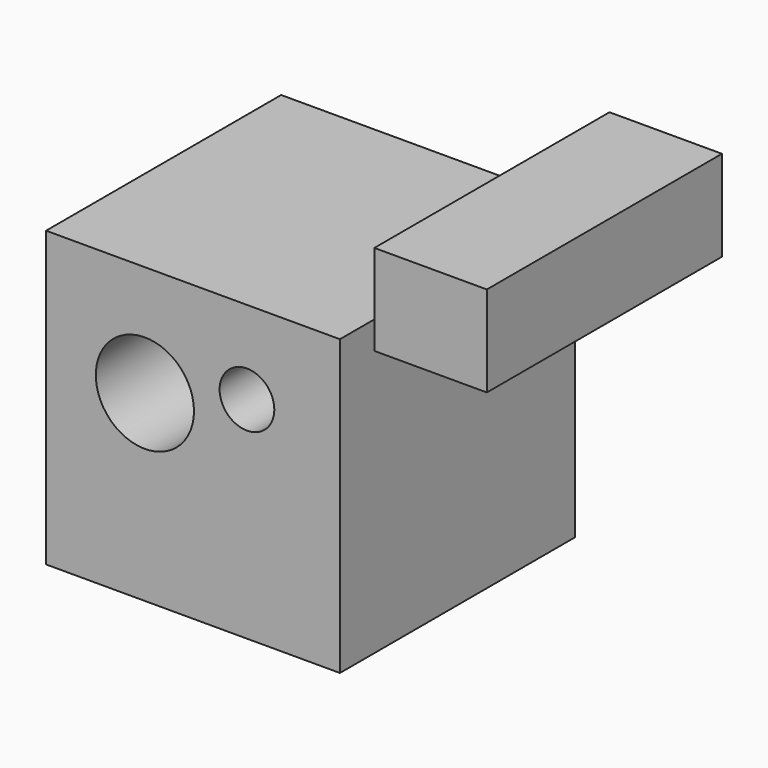
from build123d import *

# Parameters (mm, degrees)
F0_W     = 19.441969
F0_H     = 15.67901
F0_W_2   = 50.8
F0_H_2   = 50.8
F0_R     = 8.487181
F0_R_2   = 4.729954
F1_DEPTH = 50.8


with BuildPart() as f1:
    # F0 (on Front) → F1 (new body)
    with BuildSketch(Plane.XZ):
        with Locations((47.216558, 43.919361)):
            Rectangle(F0_W, F0_H)
        with Locations((6.137546, 10.523065)):
            Rectangle(F0_W_2, F0_H_2)
        with Locations((-2.18119, 16.755503)):
            Circle(F0_R, mode=Mode.SUBTRACT)
        with Locations((15.466618, 21.51446)):
            Circle(F0_R_2, mode=Mode.SUBTRACT)
    extrude(amount=F1_DEPTH)


solid = f1.part
